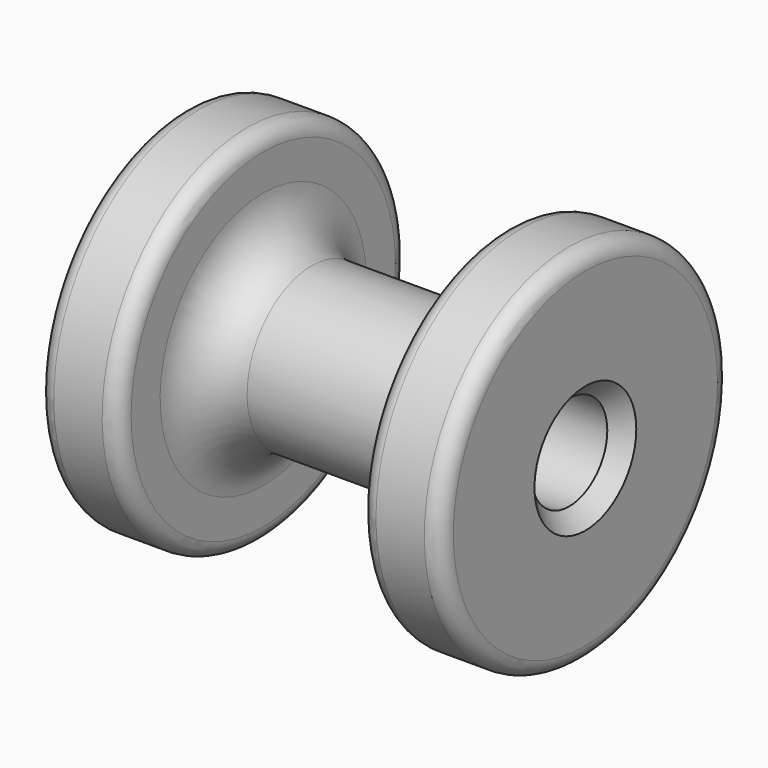
from build123d import *

# Parameters (mm, degrees)
F2_R     = 5.9
F3_DEPTH = 50.001
F4_SIZE  = 2


with BuildPart() as f1:
    # F0 (on Front) → F1 (revolve)
    with BuildSketch(Plane.XZ):
        with BuildLine():
            ThreePointArc((2, 22.5), (0.585786, 21.914214), (0, 20.5))
            Line((0, 20.5), (0, 0))
            Line((0, 0), (50, 0))
            Line((50, 0), (50, 20.5))
            ThreePointArc((50, 20.5), (49.414214, 21.914214), (48, 22.5))
            Line((48, 22.5), (42, 22.5))
            ThreePointArc((42, 22.5), (40.585786, 21.914214), (40, 20.5))
            Line((40, 20.5), (40, 16))
            ThreePointArc((40, 16), (38.242641, 11.757359), (34, 10))
            Line((34, 10), (16, 10))
            ThreePointArc((16, 10), (11.757359, 11.757359), (10, 16))
            Line((10, 16), (10, 20.5))
            ThreePointArc((10, 20.5), (9.414214, 21.914214), (8, 22.5))
            Line((8, 22.5), (2, 22.5))
        make_face()
    revolve(axis=Axis((25, 0, 0), (1, 0, 0)))

    # F2 (on face) → F3 (cut, through all)
    with BuildSketch(Plane.YZ.offset(50)):
        Circle(F2_R)
    extrude(amount=-F3_DEPTH, mode=Mode.SUBTRACT)

    # F4
    f4_edges = [f1.edges().sort_by_distance(p)[0] for p in [
        (50, -5.9, 0),
        (25, 5.9, 0),
        (0, -5.9, 0),
    ]]
    chamfer(f4_edges, length=F4_SIZE)


solid = f1.part
